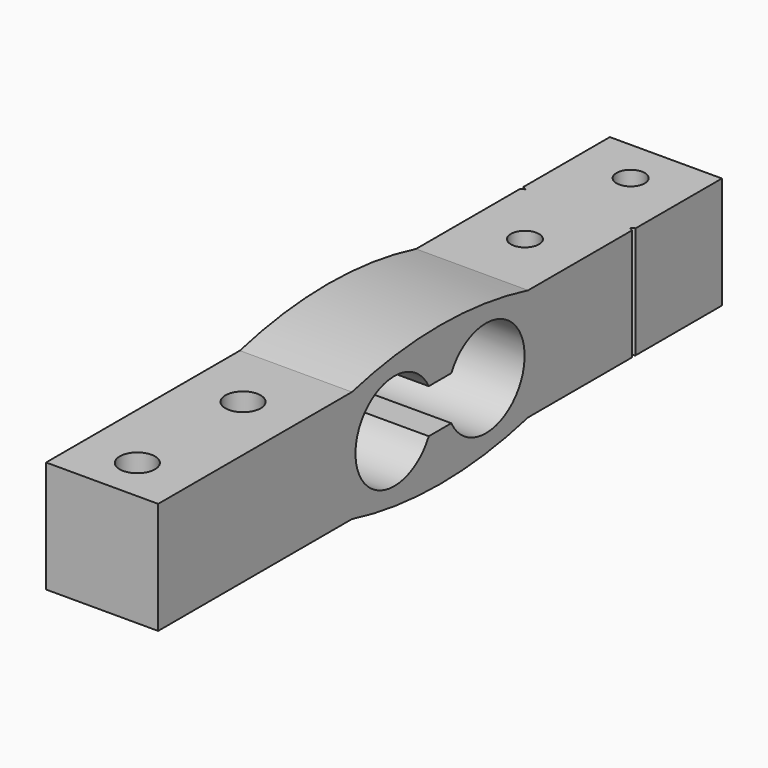
from build123d import *

# Parameters (mm, degrees)
F1_DEPTH = 6.3625
F2_R     = 2
F2_R_2   = 1.6
F3_DEPTH = 14.288708


with BuildPart() as f1:
    # F0 (on Right) → F1 (new body, symmetric)
    with BuildSketch(Plane.YZ):
        with BuildLine():
            Line((40, -6.35), (40, 6.35))
            Line((40, 6.35), (12.5, 6.35))
            ThreePointArc((12.5, 6.35), (0, 7.937708), (-12.5, 6.35))
            Line((-12.5, 6.35), (-40, 6.35))
            Line((-40, 6.35), (-40, -6.35))
            Line((-40, -6.35), (-12.5, -6.35))
            ThreePointArc((-12.5, -6.35), (0, -7.937708), (12.5, -6.35))
            Line((12.5, -6.35), (40, -6.35))
        make_face()
        with BuildLine():
            ThreePointArc((1.601021, 2.5), (12, 0), (1.601021, -2.5))
            Line((1.601021, -2.5), (-1.601021, -2.5))
            ThreePointArc((-1.601021, -2.5), (-12, 0), (-1.601021, 2.5))
            Line((-1.601021, 2.5), (1.601021, 2.5))
        make_face(mode=Mode.SUBTRACT)
    extrude(amount=F1_DEPTH, both=True)

    # F2 (on face) → F3 (cut, through all)
    with BuildSketch(Plane.XY.offset(6.35)):
        with Locations((0, -20)):
            Circle(F2_R)
        with Locations((0, -35)):
            Circle(F2_R)
        with Locations((0, 20)):
            Circle(F2_R_2)
        with Locations((0, 35)):
            Circle(F2_R_2)
        Polygon((6.3625, 27.25), (6.3625, 27.75), (5.929487, 27.5), align=None)
        Polygon((-5.929487, 27.5), (-6.3625, 27.75), (-6.3625, 27.25), align=None)
    extrude(amount=-F3_DEPTH, mode=Mode.SUBTRACT)


solid = f1.part
